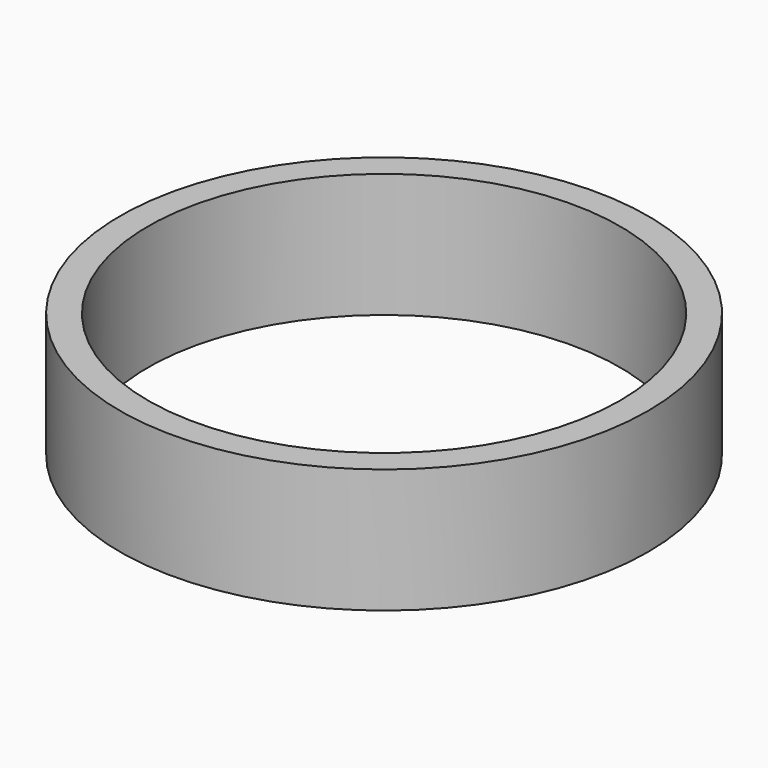
from build123d import *

# Parameters (mm, degrees)
SKETCH_R   = 42.5
SKETCH_R_2 = 38
PAD_DEPTH  = 20


with BuildPart() as part:
    # Sketch → Pad (new body)
    with BuildSketch(Plane.XY):
        Circle(SKETCH_R)
        Circle(SKETCH_R_2, mode=Mode.SUBTRACT)
    extrude(amount=PAD_DEPTH)


solid = part.part
